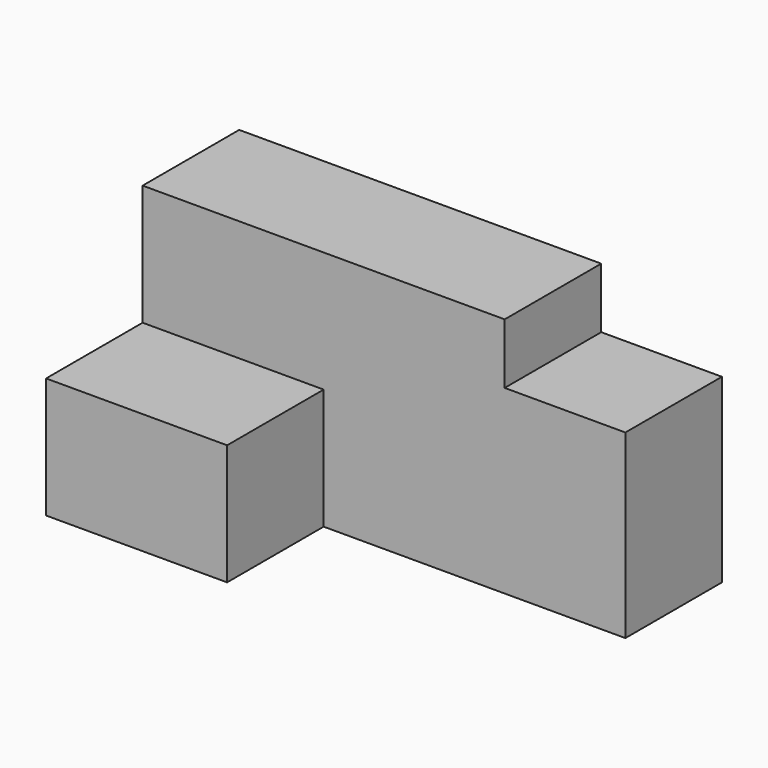
from build123d import *

# Parameters (mm, degrees)
F0_W     = 25.4
F0_H     = 50.8
F1_DEPTH = 101.6
F2_W     = 25.4
F2_H     = 25.4
F3_DEPTH = 12.7
F4_W     = 38.1
F4_H     = 25.4
F5_DEPTH = 25.4


with BuildPart() as f1:
    # F0 (on Right) → F1 (new body)
    with BuildSketch(Plane.YZ):
        with Locations((-26.463658, 3.105129)):
            Rectangle(F0_W, F0_H)
    extrude(amount=F1_DEPTH)

    # F2 (on face) → F3 (cut)
    with BuildSketch(Plane.XY.offset(28.505129)):
        with Locations((88.9, -26.463658)):
            Rectangle(F2_W, F2_H)
    extrude(amount=-F3_DEPTH, mode=Mode.SUBTRACT)

    # F4 (on face) → F5 (join)
    with BuildSketch(Plane.XZ.offset(39.163658)):
        with Locations((19.05, -9.594871)):
            Rectangle(F4_W, F4_H)
    extrude(amount=F5_DEPTH)


solid = f1.part
